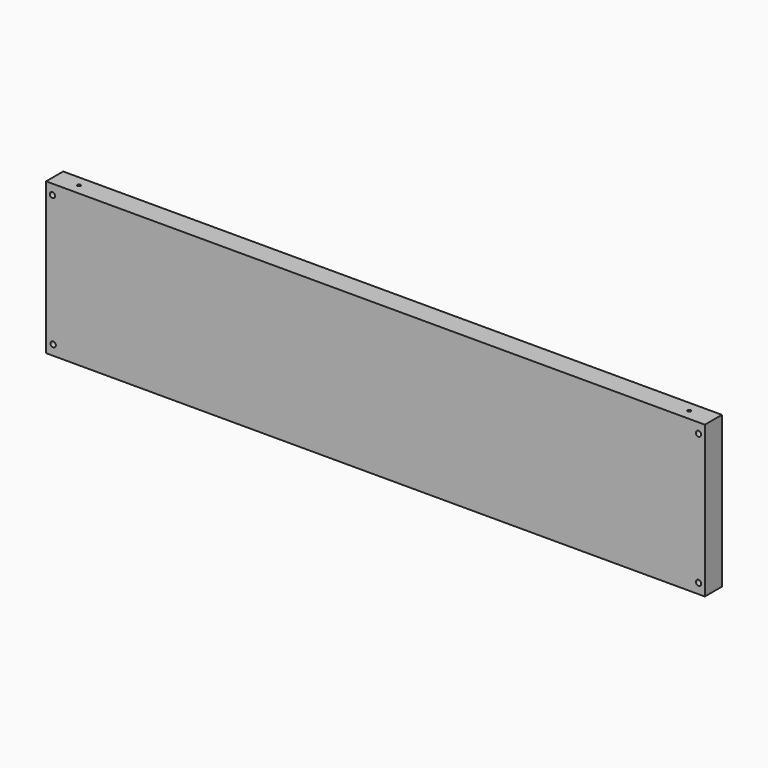
from build123d import *

# Parameters (mm, degrees)
F0_W     = 588
F0_H     = 135.05
F0_R     = 2.38125
F1_DEPTH = 19.05
F2_R     = 1.389063
F3_DEPTH = 70
F4_DEPTH = 19.05
F5_DEPTH = 70


with BuildPart() as f1:
    # F0 (on Front) → F1 (new body)
    with BuildSketch(Plane.XZ):
        with Locations((-3.524796, -84.067022)):
            Rectangle(F0_W, F0_H)
        with Locations((-291.185114, -142.642022)):
            Circle(F0_R, mode=Mode.SUBTRACT)
        with Locations((284.825206, -142.662022)):
            Circle(F0_R, mode=Mode.SUBTRACT)
        with Locations((-291.870666, -25.492022)):
            Circle(F0_R, mode=Mode.SUBTRACT)
        with Locations((284.825444, -25.492022)):
            Circle(F0_R, mode=Mode.SUBTRACT)
    extrude(amount=F1_DEPTH)

    # F2 (on Top) → F3 (cut)
    with BuildSketch(Plane.XY):
        with Locations((-275.8295, -9.436668)):
            Circle(F2_R)
        with Locations((268.836658, -9.436668)):
            Circle(F2_R)
    extrude(amount=-F3_DEPTH, mode=Mode.SUBTRACT)

    # F0 (on Front) → F4 (cut)
    with BuildSketch(Plane.XZ):
        with Locations((-3.524796, -84.067022)):
            Rectangle(F0_W, F0_H)
        with Locations((-291.185114, -142.642022)):
            Circle(F0_R, mode=Mode.SUBTRACT)
        with Locations((284.825206, -142.662022)):
            Circle(F0_R, mode=Mode.SUBTRACT)
        with Locations((-291.870666, -25.492022)):
            Circle(F0_R, mode=Mode.SUBTRACT)
        with Locations((284.825444, -25.492022)):
            Circle(F0_R, mode=Mode.SUBTRACT)
    extrude(amount=-F4_DEPTH, mode=Mode.SUBTRACT)

    # F2 (on Top) → F5 (cut)
    with BuildSketch(Plane.XY):
        with Locations((-275.8295, -9.436668)):
            Circle(F2_R)
        with Locations((268.836658, -9.436668)):
            Circle(F2_R)
    extrude(amount=-F5_DEPTH, mode=Mode.SUBTRACT)


solid = f1.part
